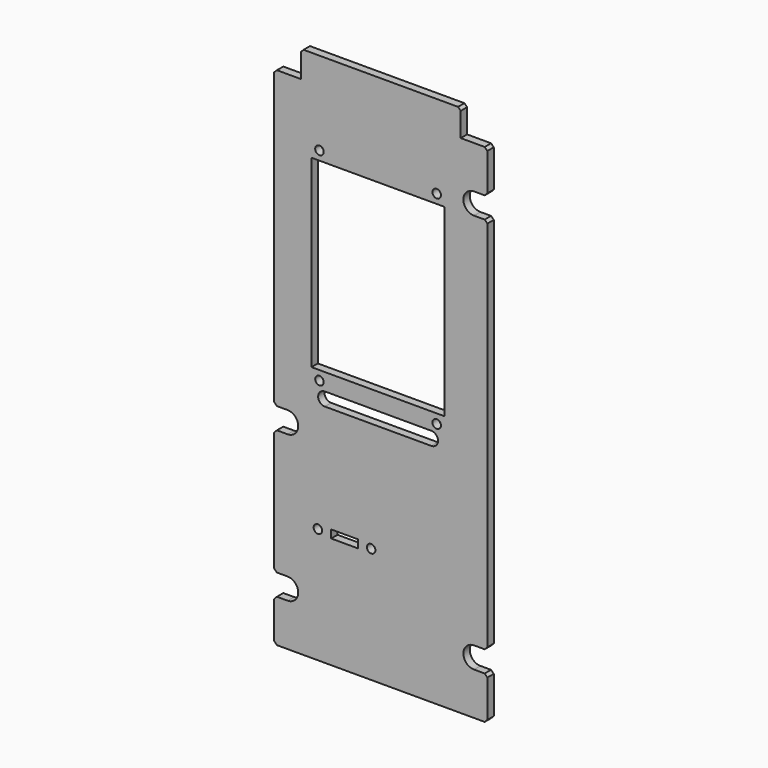
from build123d import *

# Parameters (mm, degrees)
PAD098_DEPTH    = 3
POCKET028_DEPTH = 3.001
CHAMFER064_SIZE = 1
SKETCH185_R     = 1.6
SKETCH185_W     = 50
SKETCH185_H     = 69.2
POCKET029_DEPTH = 3.001
SKETCH186_R     = 1.6
SKETCH186_W     = 10
SKETCH186_H     = 3
POCKET030_DEPTH = 3.001
POCKET031_DEPTH = 3.001


with BuildPart() as part:
    # Sketch183 → Pad098 (new body)
    with BuildSketch(Plane(origin=(0, 0, 0), x_dir=(-1, 0, 0), z_dir=(0, 1, 0))):
        Polygon((-40, 310), (-30, 310), (-30, 320), (30, 320), (30, 310), (40, 310), (40, 120), (-40, 120), align=None)
    extrude(amount=PAD098_DEPTH)

    # Sketch184 → Pocket028 (cut, through all)
    with BuildSketch(Plane(origin=(0, 0, 0), x_dir=(-1, 0, 0), z_dir=(0, 1, 0))):
        with BuildLine():
            ThreePointArc((-40, 294), (-44, 290), (-40, 286))
            Line((-40, 286), (-35, 286))
            ThreePointArc((-35, 286), (-31, 290), (-35, 294))
            Line((-35, 294), (-40, 294))
        make_face()
        with BuildLine():
            ThreePointArc((-40, 144), (-44, 140), (-40, 136))
            Line((-40, 136), (-35, 136))
            ThreePointArc((-35, 136), (-31, 140), (-35, 144))
            Line((-35, 144), (-40, 144))
        make_face()
        with BuildLine():
            ThreePointArc((40, 136), (44, 140), (40, 144))
            Line((40, 144), (35, 144))
            ThreePointArc((35, 144), (31, 140), (35, 136))
            Line((35, 136), (40, 136))
        make_face()
        with BuildLine():
            ThreePointArc((40, 191), (44, 195), (40, 199))
            Line((40, 199), (35, 199))
            ThreePointArc((35, 199), (31, 195), (35, 191))
            Line((35, 191), (40, 191))
        make_face()
    extrude(amount=POCKET028_DEPTH, mode=Mode.SUBTRACT)

    # Chamfer064
    chamfer064_edges = [part.edges().sort_by_distance(p)[0] for p in [
        (40, 1.5, 310),
        (30, 1.5, 320),
        (40, 1.5, 294),
        (40, 1.5, 286),
        (-40, 1.5, 310),
        (-30, 1.5, 320),
        (40, 1.5, 144),
        (40, 1.5, 136),
        (40, 1.5, 120),
        (-40, 1.5, 120),
        (-40, 1.5, 136),
        (-40, 1.5, 144),
        (-40, 1.5, 191),
        (-40, 1.5, 199),
    ]]
    chamfer(chamfer064_edges, length=CHAMFER064_SIZE)

    # Sketch185 (on Face5 of Chamfer064) → Pocket029 (cut, through all)
    with BuildSketch(Plane(origin=(0, 3, 0), x_dir=(-1, 0, 0), z_dir=(0, 1, 0))):
        with Locations((23.02, 212.62)):
            Circle(SKETCH185_R)
        with Locations((-20.98, 212.62)):
            Circle(SKETCH185_R)
        with Locations((-20.98, 288.7)):
            Circle(SKETCH185_R)
        with Locations((23.02, 288.7)):
            Circle(SKETCH185_R)
        with Locations((1.02, 250.7)):
            Rectangle(SKETCH185_W, SKETCH185_H)
    extrude(amount=-POCKET029_DEPTH, mode=Mode.SUBTRACT)

    # Sketch186 (on Face5 of Pocket029) → Pocket030 (cut, through all)
    with BuildSketch(Plane(origin=(0, 3, 0), x_dir=(-1, 0, 0), z_dir=(0, 1, 0))):
        with Locations((23.62, 163.37)):
            Circle(SKETCH186_R)
        with Locations((3.62, 163.37)):
            Circle(SKETCH186_R)
        with Locations((13.62, 163.37)):
            Rectangle(SKETCH186_W, SKETCH186_H)
    extrude(amount=-POCKET030_DEPTH, mode=Mode.SUBTRACT)

    # Sketch187 → Pocket031 (cut, through all)
    with BuildSketch(Plane.XZ):
        with BuildLine():
            ThreePointArc((-21.019897, 209.69686), (-23.519897, 207.19686), (-21.019897, 204.69686))
            Line((-21.019897, 204.69686), (18.980103, 204.69686))
            ThreePointArc((18.980103, 204.69686), (21.480103, 207.19686), (18.980103, 209.69686))
            Line((18.980103, 209.69686), (-21.019897, 209.69686))
        make_face()
    extrude(amount=-POCKET031_DEPTH, mode=Mode.SUBTRACT)


with BuildPart() as part_1:
    # Body086 placement: moved
    add(part.part.moved(Location((0, 75, 0))))


solid = part_1.part
